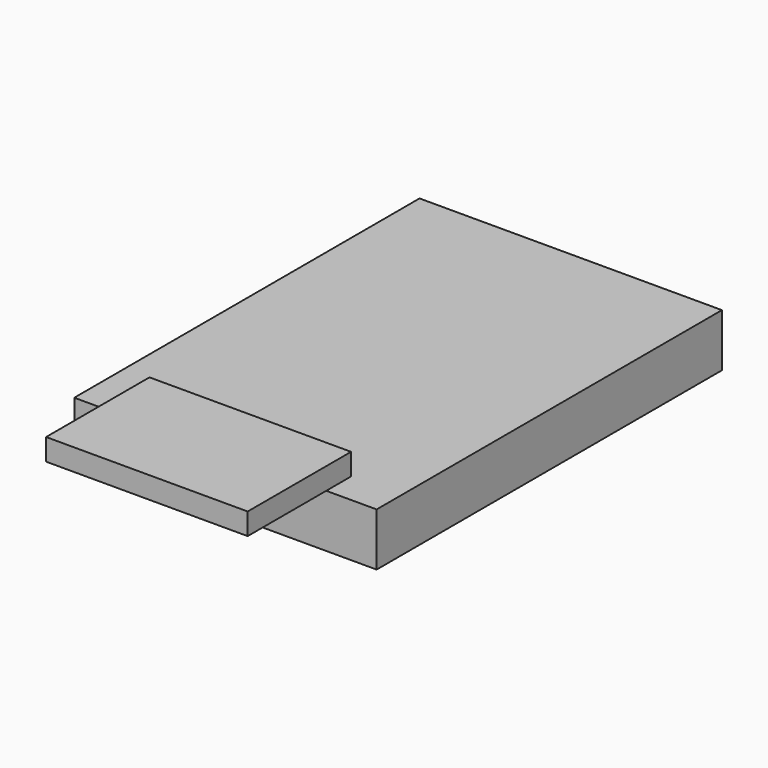
from build123d import *

# Parameters (mm, degrees)
SKETCH_W     = 23.4
SKETCH_H     = 33.4
PAD_DEPTH    = 2.05
SKETCH001_W  = 15.6
SKETCH001_H  = 10
PAD001_DEPTH = 1.68


with BuildPart() as part:
    # Sketch → Pad (new body, symmetric)
    with BuildSketch(Plane.XY):
        Rectangle(SKETCH_W, SKETCH_H)
    extrude(amount=PAD_DEPTH, both=True)

    # Sketch001 → Pad001 (new body)
    with BuildSketch(Plane.XY.offset(2.05)):
        with Locations((0, -19.3)):
            Rectangle(SKETCH001_W, SKETCH001_H)
    extrude(amount=PAD001_DEPTH)


solid = part.part
